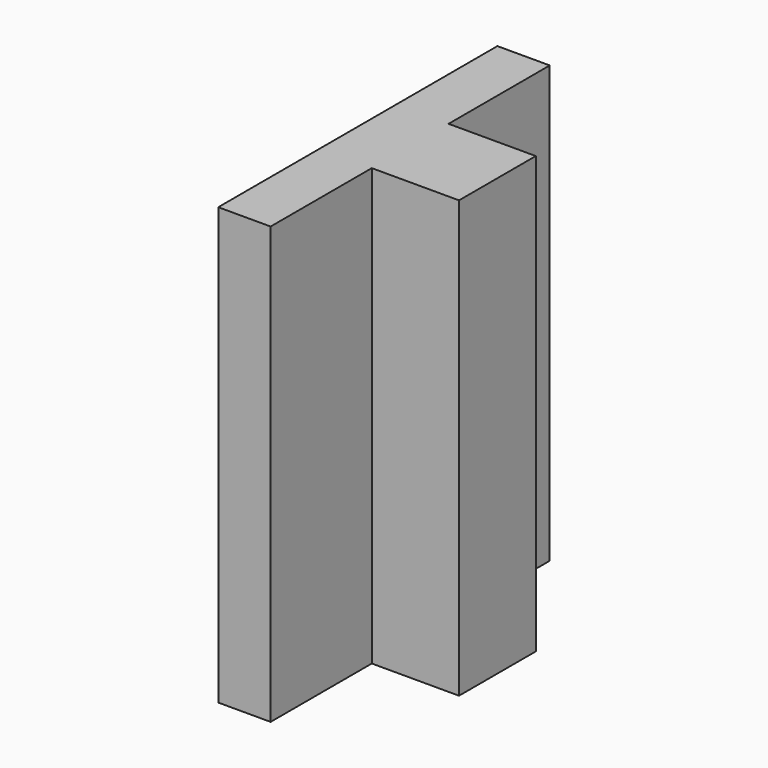
from build123d import *

# Parameters (mm, degrees)
F2_DEPTH = 25


with BuildPart() as f2:
    # F1 (on face) → F2 (new body)
    with BuildSketch(Plane.XY):
        Polygon((0, 0), (0, 5.5), (-5, 5.5), (-5, 12.75), (-8, 12.75), (-8, -7.25), (-5, -7.25), (-5, 0), align=None)
    extrude(amount=F2_DEPTH)


solid = f2.part
